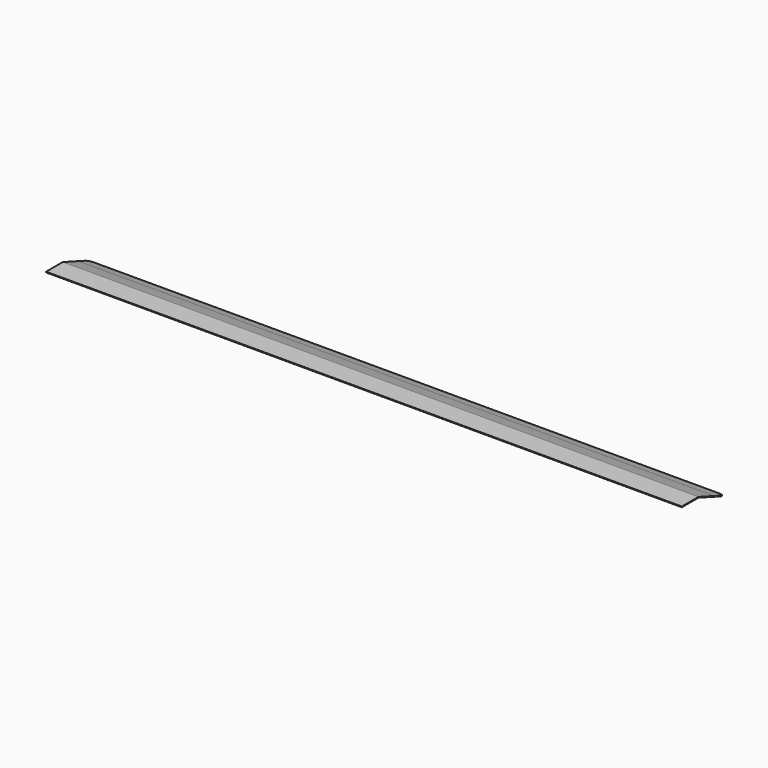
from build123d import *

# Parameters (mm, degrees)
F1_DEPTH = 582.041
F2_R     = 9.525
F3_R     = 9.525


with BuildPart() as f1:
    # F0 (on Right) → F1 (new body, symmetric)
    with BuildSketch(Plane.YZ):
        Polygon((4.234042, 0), (-33.865958, 0), (-33.865958, -1.27), (4.010107, -1.27), (37.964798, -13.628497), (63.470158, -22.911689), (63.904524, -21.718279), (40.036331, -13.030967), align=None)
    extrude(amount=F1_DEPTH, both=True)

    # F2
    f2_edges = [f1.edges().sort_by_distance(p)[0] for p in [
        (582.041, 63.687341, -22.314984),
    ]]
    fillet(f2_edges, radius=F2_R)

    # F3
    f3_edges = [f1.edges().sort_by_distance(p)[0] for p in [
        (-582.041, 63.687341, -22.314984),
    ]]
    fillet(f3_edges, radius=F3_R)


solid = f1.part
